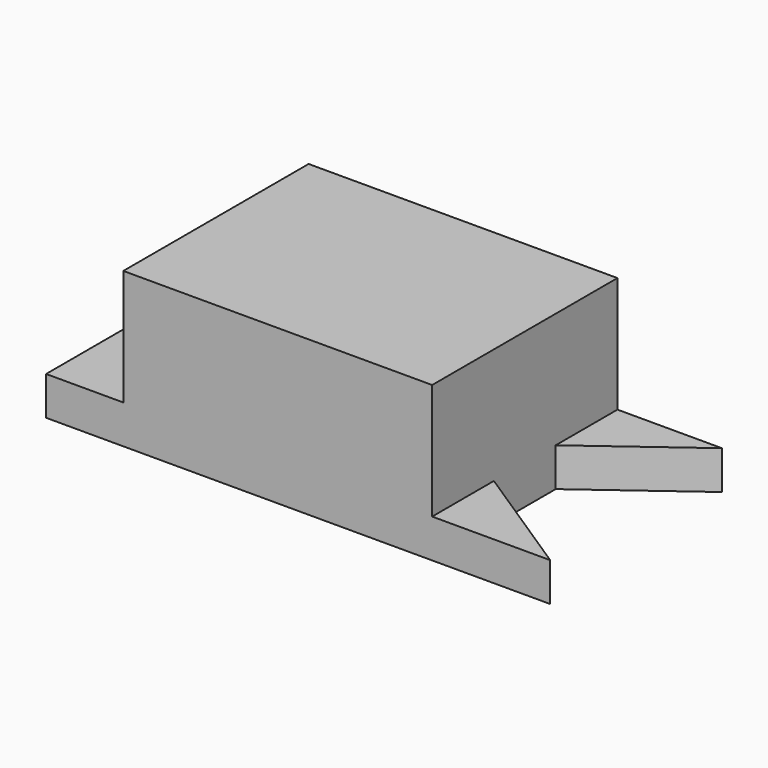
from build123d import *

# Parameters (mm, degrees)
F0_W     = 25.4
F0_H     = 76.2
F1_DEPTH = 12.7
F2_DEPTH = 50.8
F3_DEPTH = 12.7
F4_DEPTH = 12.7


with BuildPart() as f1:
    # F0 (on Top) → F1 (new body)
    with BuildSketch(Plane.XY):
        with Locations((-24.833125, -3.603618)):
            Rectangle(F0_W, F0_H)
    extrude(amount=F1_DEPTH)

    # F0 (on Top) → F2 (join)
    with BuildSketch(Plane.XY):
        Polygon((89.466875, 34.496382), (-12.133125, 34.496382), (-12.133125, -41.703618), (89.466875, -41.703618), (89.466875, -16.303618), (89.466875, 9.096382), align=None)
    extrude(amount=F2_DEPTH)

    # F0 (on Top) → F3 (join)
    with BuildSketch(Plane.XY):
        Polygon((123.831588, 34.496382), (89.466875, 34.496382), (89.466875, 9.096382), align=None)
    extrude(amount=F3_DEPTH)

    # F0 (on Top) → F4 (join)
    with BuildSketch(Plane.XY):
        Polygon((89.466875, -16.303618), (89.466875, -41.703618), (128.313944, -41.703618), align=None)
    extrude(amount=F4_DEPTH)


solid = f1.part
